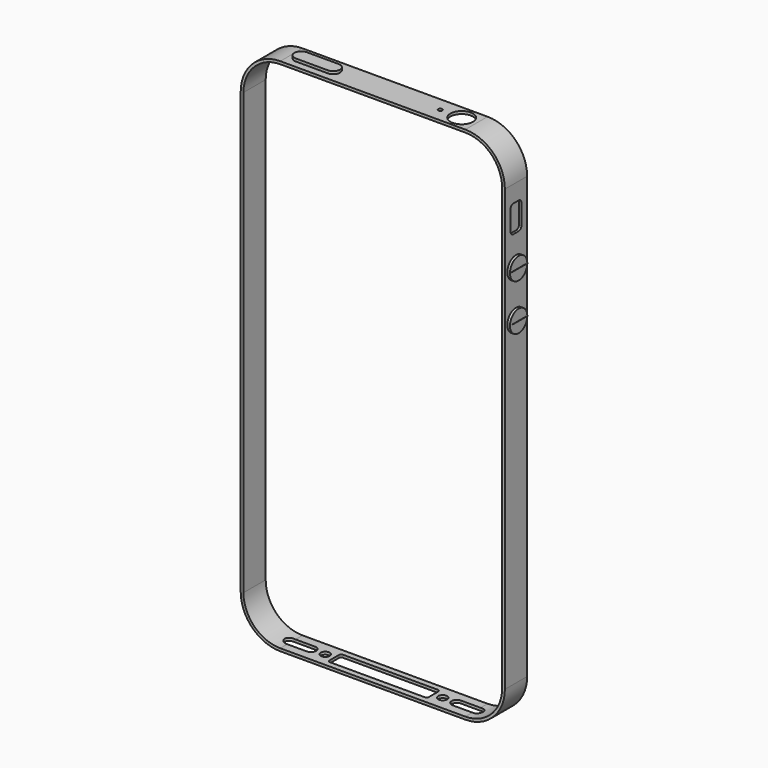
from build123d import *

# Parameters (mm, degrees)
F1_DEPTH  = 6.17
F3_DEPTH  = 0.55
F2_R      = 2.4
F4_DEPTH  = 0.58
F6_W      = 4
F6_H      = 0.05
F7_DEPTH  = 0.1
F8_R      = 2.5
F8_R_2    = 0.45
F9_DEPTH  = 0.6
F10_DEPTH = 0.6
F11_R     = 1
F12_DEPTH = 0.7361696724


with BuildPart() as f1:
    # F0 (on Front) → F1 (new body)
    with BuildSketch(Plane.XZ):
        with BuildLine():
            Line((-20.505, -57.575), (20.505, -57.575))
            ThreePointArc((20.505, -57.575), (26.706326471, -55.006326471), (29.275, -48.805))
            Line((29.275, -48.805), (29.275, 48.805))
            ThreePointArc((29.275, 48.805), (26.706326471, 55.006326471), (20.505, 57.575))
            Line((20.505, 57.575), (-20.505, 57.575))
            ThreePointArc((-20.505, 57.575), (-26.706326471, 55.006326471), (-29.275, 48.805))
            Line((-29.275, 48.805), (-29.275, -48.805))
            ThreePointArc((-29.275, -48.805), (-26.706326471, -55.006326471), (-20.505, -57.575))
        make_face()
        with BuildLine():
            ThreePointArc((28.675, -48.805), (26.2820624023, -54.5820624023), (20.505, -56.975))
            Line((20.505, -56.975), (-20.505, -56.975))
            ThreePointArc((-20.505, -56.975), (-26.2820624023, -54.5820624023), (-28.675, -48.805))
            Line((-28.675, -48.805), (-28.675, 48.805))
            ThreePointArc((-28.675, 48.805), (-26.2820624023, 54.5820624023), (-20.505, 56.975))
            Line((-20.505, 56.975), (20.505, 56.975))
            ThreePointArc((20.505, 56.975), (26.2820624023, 54.5820624023), (28.675, 48.805))
            Line((28.675, 48.805), (28.675, -48.805))
        make_face(mode=Mode.SUBTRACT)
    extrude(amount=F1_DEPTH)

    # F2 (on face) → F3 (cut)
    with BuildSketch(Plane.YZ.offset(29.275)):
        with BuildLine():
            Line((-2.335, 45.045), (-3.835, 45.045))
            ThreePointArc((-3.835, 45.045), (-4.3653300859, 44.8253300859), (-4.585, 44.295))
            Line((-4.585, 44.295), (-4.585, 39.795))
            ThreePointArc((-4.585, 39.795), (-4.3653300859, 39.2646699141), (-3.835, 39.045))
            Line((-3.835, 39.045), (-2.335, 39.045))
            ThreePointArc((-2.335, 39.045), (-1.8046699141, 39.2646699141), (-1.585, 39.795))
            Line((-1.585, 39.795), (-1.585, 44.295))
            ThreePointArc((-1.585, 44.295), (-1.8046699141, 44.8253300859), (-2.335, 45.045))
        make_face()
    extrude(amount=-F3_DEPTH, mode=Mode.SUBTRACT)

    # F2 (on face) → F4 (join)
    with BuildSketch(Plane.YZ.offset(29.275)):
        with Locations((-3.085, 32.295)):
            Circle(F2_R)
        with Locations((-3.085, 22.015)):
            Circle(F2_R)
    extrude(amount=F4_DEPTH)

    # F5 (on face) + F6 (on face) → F7 (cut)
    with BuildSketch(Plane.YZ.offset(29.855)):
        Polygon((-3.11, 32.27), (-3.11, 30.295), (-3.06, 30.295), (-3.06, 32.27), (-1.085, 32.27), (-1.085, 32.32), (-3.06, 32.32), (-3.06, 34.295), (-3.11, 34.295), (-3.11, 32.32), (-5.085, 32.32), (-5.085, 32.27), align=None)
    with BuildSketch(Plane.YZ.offset(29.855)):
        with Locations((-3.085, 22.015)):
            Rectangle(F6_W, F6_H)
    extrude(amount=-F7_DEPTH, mode=Mode.SUBTRACT)

    # F8 (on face) → F9 (cut)
    with BuildSketch(Plane.XY.offset(57.575)):
        with Locations((17.235, -3.085)):
            Circle(F8_R)
        with Locations((12.495, -3.085)):
            Circle(F8_R_2)
    extrude(amount=-F9_DEPTH, mode=Mode.SUBTRACT)

    # F8 (on face) → F10 (join)
    with BuildSketch(Plane.XY.offset(57.575)):
        with BuildLine():
            ThreePointArc((-19.835, -3.085), (-19.3956601718, -4.1456601718), (-18.335, -4.585))
            Line((-18.335, -4.585), (-11.235, -4.585))
            ThreePointArc((-11.235, -4.585), (-10.1743398282, -4.1456601718), (-9.735, -3.085))
            ThreePointArc((-9.735, -3.085), (-10.1743398282, -2.0243398282), (-11.235, -1.585))
            Line((-11.235, -1.585), (-18.335, -1.585))
            ThreePointArc((-18.335, -1.585), (-19.3956601718, -2.0243398282), (-19.835, -3.085))
        make_face()
    extrude(amount=F10_DEPTH)

    # F11 (on face) → F12 (cut, through all)
    with BuildSketch(Plane(origin=(0, 0, -57.575), x_dir=(1, 0, 0), z_dir=(0, 0, -1))):
        with BuildLine():
            Line((-10.505, 1.285), (10.505, 1.285))
            ThreePointArc((10.505, 1.285), (10.8585533906, 1.4314466094), (11.005, 1.785))
            Line((11.005, 1.785), (11.005, 4.385))
            ThreePointArc((11.005, 4.385), (10.8585533906, 4.7385533906), (10.505, 4.885))
            Line((10.505, 4.885), (-10.505, 4.885))
            ThreePointArc((-10.505, 4.885), (-10.8585533906, 4.7385533906), (-11.005, 4.385))
            Line((-11.005, 4.385), (-11.005, 1.785))
            ThreePointArc((-11.005, 1.785), (-10.8585533906, 1.4314466094), (-10.505, 1.285))
        make_face()
        with Locations((-13.025, 3.085)):
            Circle(F11_R)
        with Locations((13.025, 3.085)):
            Circle(F11_R)
        with BuildLine():
            Line((-20.835, 1.935), (-16.165, 1.935))
            ThreePointArc((-16.165, 1.935), (-15.3518272016, 2.2718272016), (-15.015, 3.085))
            ThreePointArc((-15.015, 3.085), (-15.3518272016, 3.8981727984), (-16.165, 4.235))
            Line((-16.165, 4.235), (-20.835, 4.235))
            ThreePointArc((-20.835, 4.235), (-21.6481727984, 3.8981727984), (-21.985, 3.085))
            ThreePointArc((-21.985, 3.085), (-21.6481727984, 2.2718272016), (-20.835, 1.935))
        make_face()
        with BuildLine():
            Line((16.165, 1.935), (20.835, 1.935))
            ThreePointArc((20.835, 1.935), (21.6481727984, 2.2718272016), (21.985, 3.085))
            ThreePointArc((21.985, 3.085), (21.6481727984, 3.8981727984), (20.835, 4.235))
            Line((20.835, 4.235), (16.165, 4.235))
            ThreePointArc((16.165, 4.235), (15.3518272016, 3.8981727984), (15.015, 3.085))
            ThreePointArc((15.015, 3.085), (15.3518272016, 2.2718272016), (16.165, 1.935))
        make_face()
    extrude(amount=-F12_DEPTH, mode=Mode.SUBTRACT)


solid = f1.part
